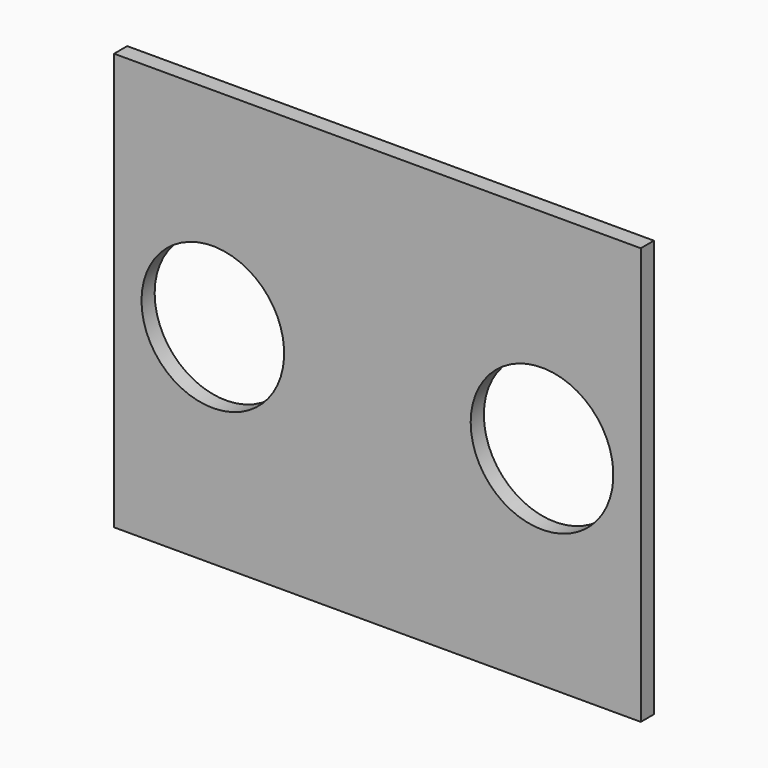
from build123d import *

# Parameters (mm, degrees)
F0_W     = 48
F0_H     = 38
F1_DEPTH = 1.5
F3_D     = 13
F3_DEPTH = 10


with BuildPart() as f1:
    # F0 (on Front) → F1 (new body)
    with BuildSketch(Plane.XZ):
        with Locations((24, 19)):
            Rectangle(F0_W, F0_H)
    extrude(amount=F1_DEPTH)

    # F3
    with Locations(Plane.XZ.offset(1.5)):
        with Locations((9, 19), (39, 19)):
            Hole(F3_D / 2, depth=F3_DEPTH)


solid = f1.part
